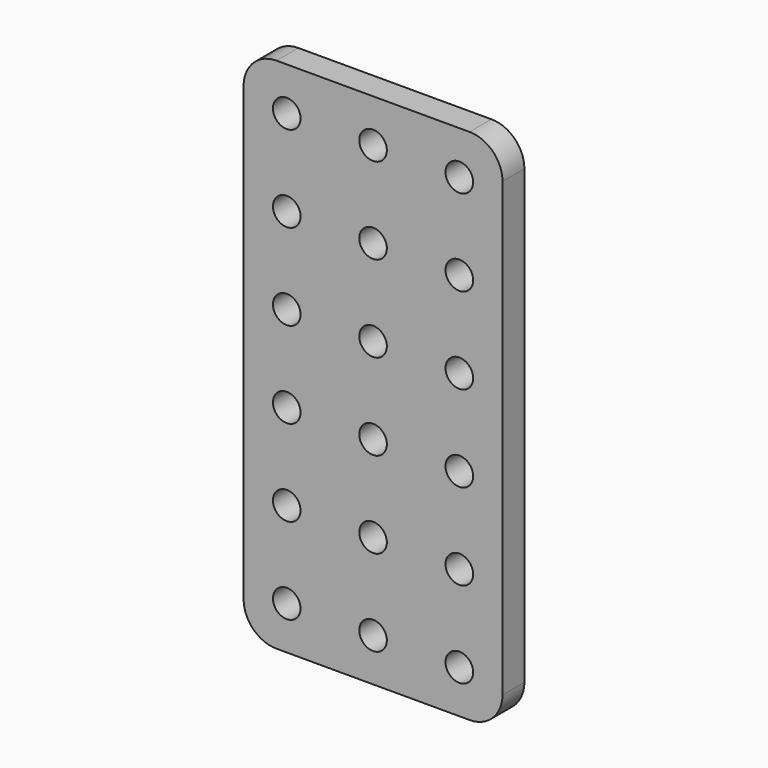
from build123d import *

# Parameters (mm, degrees)
F0_R     = 1.6
F1_DEPTH = 3.175


with BuildPart() as f1:
    # F0 (on Front) → F1 (new body)
    with BuildSketch(Plane.XZ):
        with BuildLine():
            Line((26.19, 0), (3.81, 0))
            ThreePointArc((3.81, 0), (1.115923, -1.115923), (0, -3.81))
            Line((0, -3.81), (0, -56.19))
            ThreePointArc((0, -56.19), (1.115923, -58.884077), (3.81, -60))
            Line((3.81, -60), (26.19, -60))
            ThreePointArc((26.19, -60), (28.884077, -58.884077), (30, -56.19))
            Line((30, -56.19), (30, -3.81))
            ThreePointArc((30, -3.81), (28.884077, -1.115923), (26.19, 0))
        make_face()
        with Locations((5, -55)):
            Circle(F0_R, mode=Mode.SUBTRACT)
        with Locations((5, -45)):
            Circle(F0_R, mode=Mode.SUBTRACT)
        with Locations((5, -35)):
            Circle(F0_R, mode=Mode.SUBTRACT)
        with Locations((15, -55)):
            Circle(F0_R, mode=Mode.SUBTRACT)
        with Locations((25, -55)):
            Circle(F0_R, mode=Mode.SUBTRACT)
        with Locations((15, -45)):
            Circle(F0_R, mode=Mode.SUBTRACT)
        with Locations((15, -35)):
            Circle(F0_R, mode=Mode.SUBTRACT)
        with Locations((25, -45)):
            Circle(F0_R, mode=Mode.SUBTRACT)
        with Locations((25, -35)):
            Circle(F0_R, mode=Mode.SUBTRACT)
        with Locations((5, -25)):
            Circle(F0_R, mode=Mode.SUBTRACT)
        with Locations((5, -15)):
            Circle(F0_R, mode=Mode.SUBTRACT)
        with Locations((5, -5)):
            Circle(F0_R, mode=Mode.SUBTRACT)
        with Locations((15, -25)):
            Circle(F0_R, mode=Mode.SUBTRACT)
        with Locations((25, -25)):
            Circle(F0_R, mode=Mode.SUBTRACT)
        with Locations((15, -15)):
            Circle(F0_R, mode=Mode.SUBTRACT)
        with Locations((15, -5)):
            Circle(F0_R, mode=Mode.SUBTRACT)
        with Locations((25, -15)):
            Circle(F0_R, mode=Mode.SUBTRACT)
        with Locations((25, -5)):
            Circle(F0_R, mode=Mode.SUBTRACT)
    extrude(amount=F1_DEPTH)


solid = f1.part
